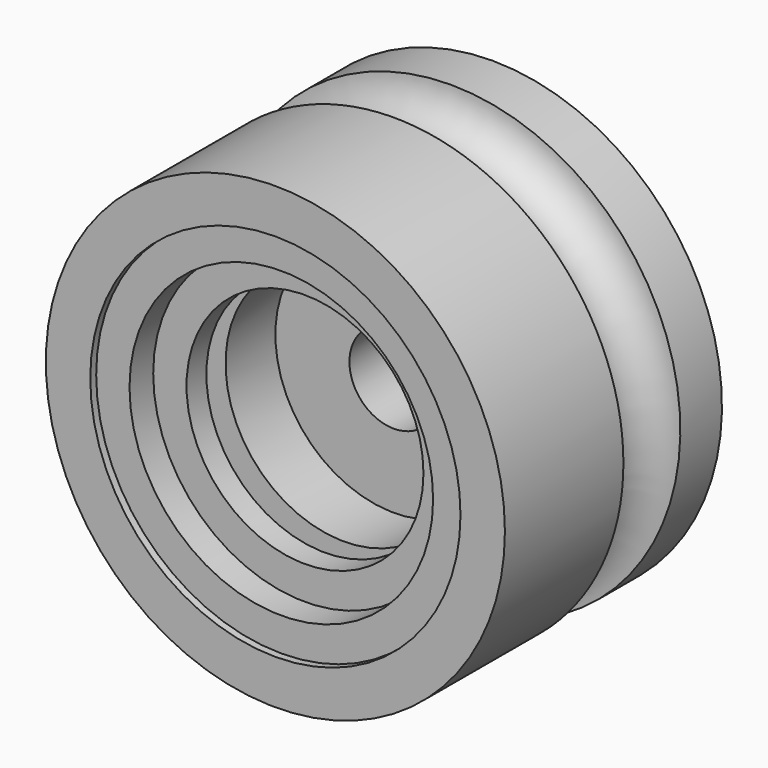
from build123d import *

# Parameters (mm, degrees)
F0_R      = 78.74
F0_R_2    = 63.5
F1_DEPTH  = 50.8
F2_R      = 63.5
F2_R_2    = 52.07
F5_DEPTH  = 48.26
F4_R      = 63.5
F4_R_2    = 40.64
F6_DEPTH  = 38.1
F3_W      = 5.037099
F3_H      = 46.096297
F8_W      = 9.554964
F8_H      = 33.442384
F10_R     = 15.24
F11_DEPTH = 70.999706


with BuildPart() as f1:
    # F0 (on Front) → F1 (new body)
    with BuildSketch(Plane.XZ):
        Circle(F0_R)
        Circle(F0_R_2, mode=Mode.SUBTRACT)
    extrude(amount=F1_DEPTH)

    # F2 (on Front) → F5 (join)
    with BuildSketch(Plane.XZ):
        Circle(F2_R)
        Circle(F2_R_2, mode=Mode.SUBTRACT)
    extrude(amount=F5_DEPTH)

    # F4 (on Front) → F6 (join)
    with BuildSketch(Plane.XZ):
        Circle(F4_R)
        Circle(F4_R_2, mode=Mode.SUBTRACT)
    extrude(amount=F6_DEPTH)

    # F3 (on Right) → F7 (revolve)
    with BuildSketch(Plane.YZ):
        Polygon((42.333808, 78.692965), (24.474939, 78.692965), (24.474939, 1.865802), (42.333808, 1.865802), (42.333808, 52.154191), align=None)
        with BuildLine():
            Line((24.474939, 1.865802), (24.474939, 78.692965))
            ThreePointArc((24.474939, 78.692965), (12.23747, 66.455496), (0, 78.692965))
            Line((0, 78.692965), (0, 1.865802))
            Line((0, 1.865802), (24.474939, 1.865802))
        make_face()
        Polygon((65.961607, 52.154191), (42.333808, 52.154191), (42.333808, 1.865802), (65.961607, 1.865802), (65.961607, 47.962099), align=None)
        with Locations((68.480156, 24.91395)):
            Rectangle(F3_W, F3_H)
    revolve(axis=Axis((0, 23.528613, 0), (0, 1, 0)))

    # F8 (on Right) → F9 (revolve, cut)
    with BuildSketch(Plane.YZ):
        Polygon((-29.593855, 39.679654), (-29.593855, 6.23727), (-21.365967, 6.23727), (-21.365967, 50.296281), (-29.593855, 50.296281), align=None)
        with Locations((-34.371337, 22.958462)):
            Rectangle(F8_W, F8_H)
    revolve(axis=Axis((0, -25.413556, 0), (0, -1, 0)), mode=Mode.SUBTRACT)

    # F10 (on Front) → F11 (cut, through all)
    with BuildSketch(Plane.XZ):
        Circle(F10_R)
    extrude(amount=-F11_DEPTH, mode=Mode.SUBTRACT)


solid = f1.part
